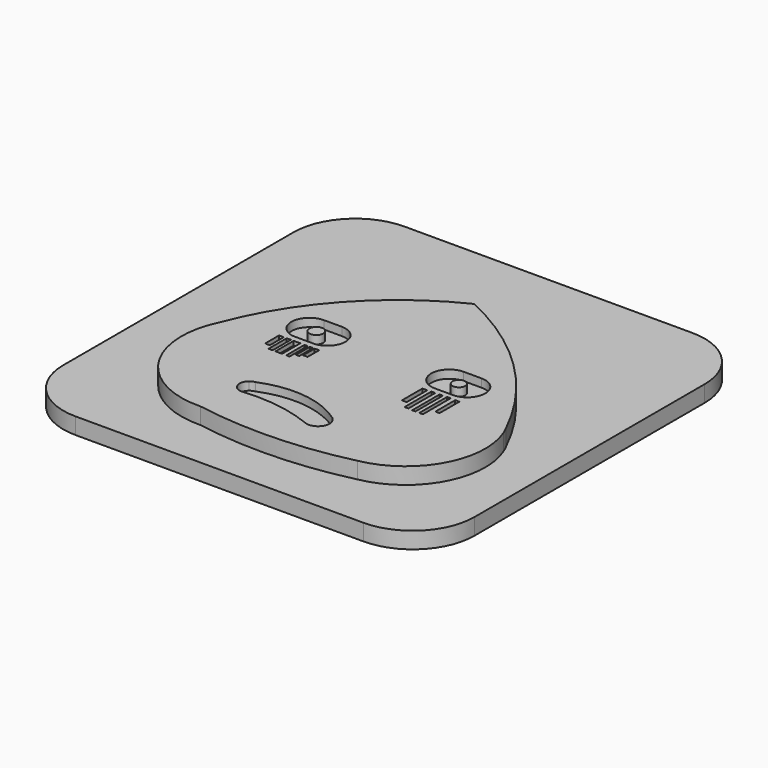
from build123d import *

# Parameters (mm, degrees)
F1_DEPTH  = 2
F3_DEPTH  = 2
F5_DEPTH  = 1
F6_R      = 0.84006
F7_DEPTH  = 1
F8_R      = 0.772284
F9_DEPTH  = 1
F10_W     = 0.575737
F10_H     = 2.122555
F10_W_2   = 0.4
F10_H_2   = 2.778417
F10_H_3   = 2.12387
F10_W_3   = 0.545456
F10_H_4   = 1.760233
F10_W_4   = 0.581819
F10_H_5   = 3.127278
F10_W_5   = 0.472728
F10_H_6   = 4.072734
F10_W_6   = 0.400001
F10_H_7   = 4.181825
F10_W_7   = 0.436365
F10_H_8   = 4.218189
F10_W_8   = 0.509092
F10_H_9   = 3.018187
F10_W_9   = 0.507496
F10_H_10  = 2.769646
F10_W_10  = 0.811112
F11_DEPTH = 0.5


with BuildPart() as f1:
    # F0 (on Top) → F1 (new body)
    with BuildSketch(Plane.XY):
        with BuildLine():
            Line((17.5, 25), (-17.5, 25))
            ThreePointArc((-17.5, 25), (-22.803301, 22.803301), (-25, 17.5))
            Line((-25, 17.5), (-25, -17.5))
            ThreePointArc((-25, -17.5), (-22.803301, -22.803301), (-17.5, -25))
            Line((-17.5, -25), (17.5, -25))
            ThreePointArc((17.5, -25), (22.803301, -22.803301), (25, -17.5))
            Line((25, -17.5), (25, 17.5))
            ThreePointArc((25, 17.5), (22.803301, 22.803301), (17.5, 25))
        make_face()
    extrude(amount=F1_DEPTH)

    # F2 (on face) → F3 (join)
    with BuildSketch(Plane.XY.offset(2)):
        with BuildLine():
            ThreePointArc((-17.337266, -6.77024), (-16.986234, -5.655714), (-16.596286, -4.5542))
            ThreePointArc((-16.596286, -4.5542), (-17.030893, -5.640781), (-17.337266, -6.77024))
        make_face()
        with BuildLine():
            ThreePointArc((0, 13.707489), (-10.053503, 6.171922), (-16.596286, -4.5542))
            ThreePointArc((-16.596286, -4.5542), (-16.986234, -5.655714), (-17.337266, -6.77024))
            ThreePointArc((-17.337266, -6.77024), (-15.200345, -15.343852), (-7.146251, -18.977696))
            ThreePointArc((-7.146251, -18.977696), (2.212472, -19.631089), (11.51198, -18.393445))
            ThreePointArc((11.51198, -18.393445), (18.229392, -13.509449), (18.713062, -5.218303))
            ThreePointArc((18.713062, -5.218303), (18.502407, -4.757976), (18.285647, -4.300492))
            ThreePointArc((18.285647, -4.300492), (10.706603, 6.29139), (0, 13.707489))
        make_face()
        with BuildLine():
            ThreePointArc((18.713062, -5.218303), (18.511326, -4.753823), (18.285647, -4.300492))
            ThreePointArc((18.285647, -4.300492), (18.502407, -4.757976), (18.713062, -5.218303))
        make_face()
    extrude(amount=F3_DEPTH)

    # F4 (on face) → F5 (cut)
    with BuildSketch(Plane.XY.offset(4)):
        with BuildLine():
            Line((-6.871892, 2.191255), (-9.063148, 2.191255))
            ThreePointArc((-9.063148, 2.191255), (-11.253164, 0.073695), (-9.210455, -2.186298))
            Line((-9.210455, -2.186298), (-8.925119, -2.186904))
            Line((-8.925119, -2.186904), (-6.876542, -2.191251))
            ThreePointArc((-6.876542, -2.191251), (-4.680638, -0.002325), (-6.871892, 2.191255))
        make_face()
        with BuildLine():
            Line((-8.925119, -2.186904), (-9.210455, -2.186298))
            ThreePointArc((-9.210455, -2.186298), (-9.067797, -2.191251), (-8.925119, -2.186904))
        make_face()
        with BuildLine():
            Line((10.128108, 2.191255), (7.936852, 2.191255))
            ThreePointArc((7.936852, 2.191255), (5.746836, 0.073695), (7.789545, -2.186298))
            Line((7.789545, -2.186298), (8.074881, -2.186904))
            Line((8.074881, -2.186904), (10.123458, -2.191251))
            ThreePointArc((10.123458, -2.191251), (12.319362, -0.002325), (10.128108, 2.191255))
        make_face()
        with BuildLine():
            Line((8.074881, -2.186904), (7.789545, -2.186298))
            ThreePointArc((7.789545, -2.186298), (7.932203, -2.191251), (8.074881, -2.186904))
        make_face()
        with BuildLine():
            ThreePointArc((-6.770146, -12.095645), (-6.464266, -11.95017), (-6.153883, -11.814569))
            ThreePointArc((-6.153883, -11.814569), (-6.482713, -11.909726), (-6.770146, -12.095645))
        make_face()
        with BuildLine():
            ThreePointArc((4.085766, -12.978509), (-0.882645, -11.0645), (-6.153883, -11.814569))
            ThreePointArc((-6.153883, -11.814569), (-6.464266, -11.95017), (-6.770146, -12.095645))
            ThreePointArc((-6.770146, -12.095645), (-7.094568, -13.392527), (-5.995244, -14.153211))
            ThreePointArc((-5.995244, -14.153211), (-5.884481, -14.14233), (-5.773655, -14.132122))
            ThreePointArc((-5.773655, -14.132122), (-1.437532, -14.261511), (2.746676, -15.40655))
            ThreePointArc((2.746676, -15.40655), (4.494557, -14.787244), (4.085766, -12.978509))
        make_face()
        with BuildLine():
            ThreePointArc((-5.773655, -14.132122), (-5.884481, -14.14233), (-5.995244, -14.153211))
            ThreePointArc((-5.995244, -14.153211), (-5.883949, -14.147927), (-5.773655, -14.132122))
        make_face()
    extrude(amount=-F5_DEPTH, mode=Mode.SUBTRACT)

    # F6 (on face) → F7 (join)
    with BuildSketch(Plane.XY.offset(3)):
        with Locations((-8.223088, 0)):
            Circle(F6_R)
    extrude(amount=F7_DEPTH)

    # F8 (on face) → F9 (join)
    with BuildSketch(Plane.XY.offset(3)):
        with Locations((9.100624, 0)):
            Circle(F8_R)
    extrude(amount=F9_DEPTH)

    # F10 (on face) → F11 (cut)
    with BuildSketch(Plane.XY.offset(4)):
        with Locations((-10.134581, -3.984638)):
            Rectangle(F10_W, F10_H)
        with Locations((-7.127401, -4.31257)):
            Rectangle(F10_W_2, F10_H_2)
        with Locations((-6.472855, -3.985296)):
            Rectangle(F10_W_2, F10_H_3)
        with Locations((-5.818308, -3.803477)):
            Rectangle(F10_W_3, F10_H_4)
        with Locations((7.317732, -4.503073)):
            Rectangle(F10_W_4, F10_H_5)
        with Locations((8.317734, -4.939437)):
            Rectangle(F10_W_5, F10_H_6)
        with Locations((9.263191, -4.957618)):
            Rectangle(F10_W_6, F10_H_7)
        with Locations((10.154101, -4.939436)):
            Rectangle(F10_W_7, F10_H_8)
        with Locations((11.208649, -4.375799)):
            Rectangle(F10_W_8, F10_H_9)
        with Locations((-9.240523, -4.308184)):
            Rectangle(F10_W_9, F10_H_10)
        with Locations((-8.240381, -4.31257)):
            Rectangle(F10_W_10, F10_H_2)
    extrude(amount=-F11_DEPTH, mode=Mode.SUBTRACT)


solid = f1.part
